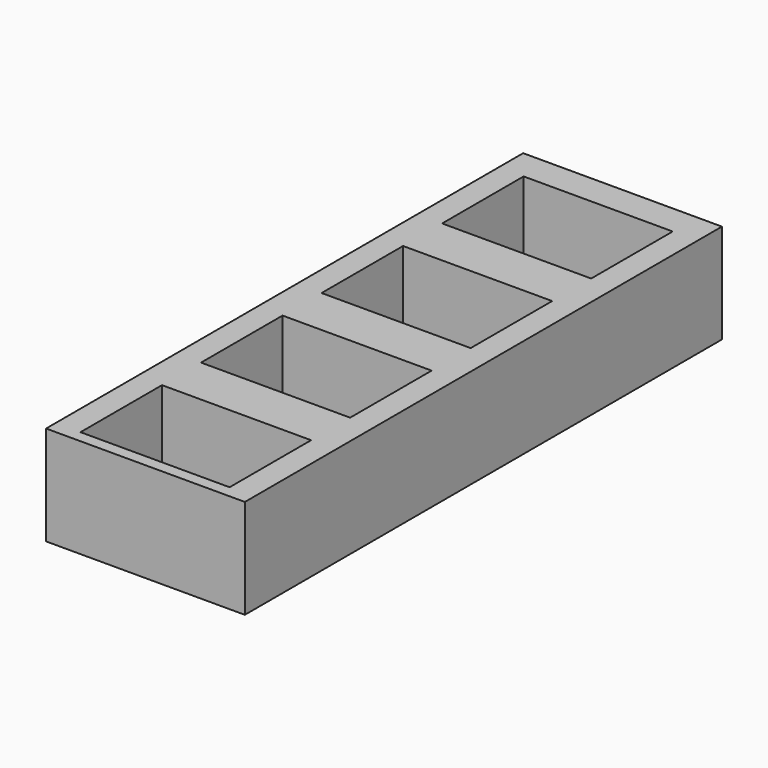
from build123d import *

# Parameters (mm, degrees)
F1_DEPTH = 25.4
F2_DEPTH = 6.35


with BuildPart() as f1:
    # F0 (on Top) → F1 (new body)
    with BuildSketch(Plane.XY):
        Polygon((25.4, -76.2), (25.4, 76.2), (0, 76.2), (-25.4, 76.2), (-25.4, -76.2), align=None)
        Polygon((-19.05, -47.105642), (0, -47.105642), (19.05, -47.105642), (19.05, -73.140642), (-19.05, -73.140642), align=None, mode=Mode.SUBTRACT)
        Polygon((-19.05, -8.599242), (0, -8.599242), (19.05, -8.599242), (19.05, -34.634242), (0, -34.634242), (-19.05, -34.634242), align=None, mode=Mode.SUBTRACT)
        Polygon((-19.05, 29.907158), (0, 29.907158), (19.05, 29.907158), (19.05, 3.872158), (0, 3.872158), (-19.05, 3.872158), align=None, mode=Mode.SUBTRACT)
        Polygon((-19.05, 68.410887), (19.05, 68.410887), (19.05, 42.375887), (0, 42.375887), (-19.05, 42.375887), align=None, mode=Mode.SUBTRACT)
    extrude(amount=F1_DEPTH)

    # F0 (on Top) → F2 (join)
    with BuildSketch(Plane.XY):
        Polygon((19.05, 42.375887), (19.05, 68.410887), (-19.05, 68.410887), (-19.05, 42.375887), (0, 42.375887), align=None)
        Polygon((19.05, 29.907158), (0, 29.907158), (0, 29.675887), (0, 16.889658), (0, 3.872158), (19.05, 3.872158), align=None)
        Polygon((0, 29.675887), (0, 29.907158), (-19.05, 29.907158), (-19.05, 3.872158), (0, 3.872158), (0, 16.889658), align=None)
        Polygon((0, -21.616742), (0, -8.599242), (-19.05, -8.599242), (-19.05, -34.634242), (0, -34.634242), align=None)
        Polygon((19.05, -8.599242), (0, -8.599242), (0, -21.616742), (0, -34.634242), (19.05, -34.634242), align=None)
        Polygon((19.05, -47.105642), (0, -47.105642), (-19.05, -47.105642), (-19.05, -73.140642), (19.05, -73.140642), align=None)
    extrude(amount=F2_DEPTH)


solid = f1.part
